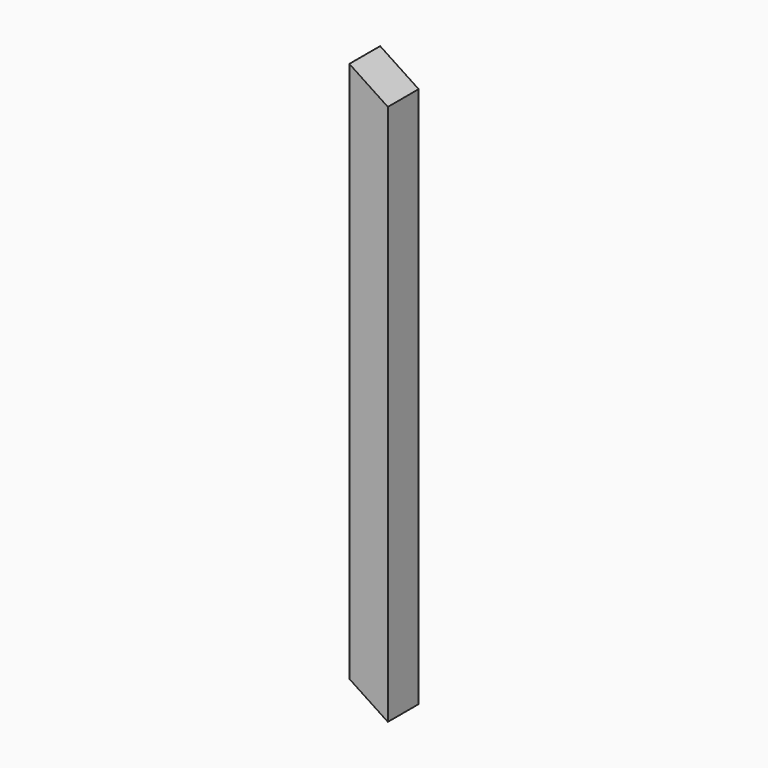
from build123d import *

# Parameters (mm, degrees)
F1_DEPTH = 19


with BuildPart() as f1:
    # F0 (on Front) → F1 (new body)
    with BuildSketch(Plane.XZ):
        Polygon((11.51464, 37.958085), (-7.48536, 50.485557), (-7.48536, -216.733724), (11.51464, -229.261196), align=None)
    extrude(amount=F1_DEPTH)


with BuildPart() as f2_1:
    # F2: copy of F1
    add(f1.part)


solid = f1.part
